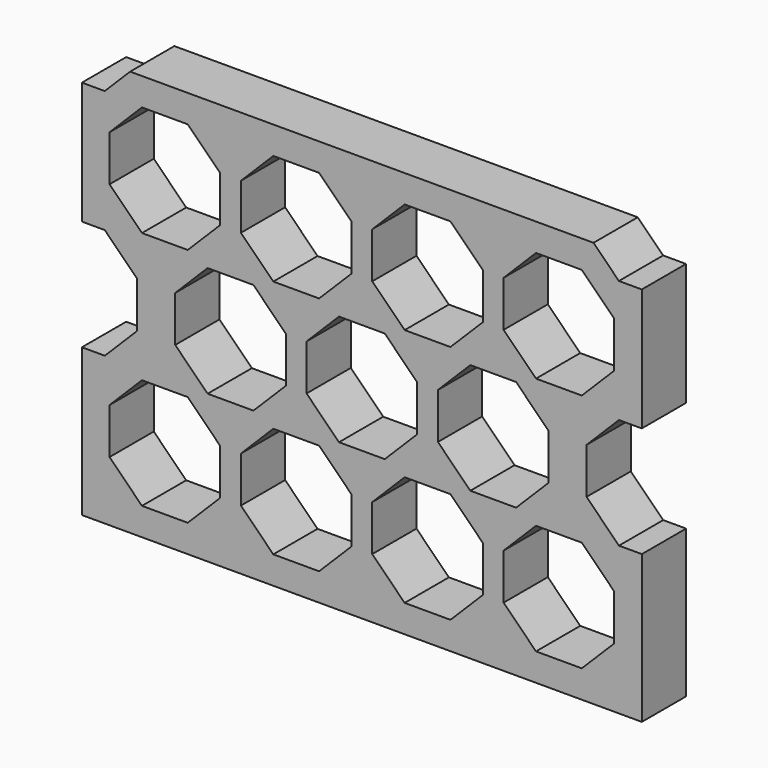
from build123d import *

# Parameters (mm, degrees)
F1_DEPTH = 2


with BuildPart() as f1:
    # F0 (on Front) → F1 (new body)
    with BuildSketch(Plane.XZ):
        Polygon((5.419874, 11.329587), (-11.338243, 11.329587), (-12.255757, 10.412073), (-13.082057, 10.412073), (-13.082057, 5.987073), (-12.25363, 5.987073), (-11.082057, 4.8155), (-11.082057, 3.158646), (-12.25363, 1.987073), (-13.082057, 1.987073), (-13.082057, -3.355442), (7.167943, -3.355442), (7.167943, 1.987073), (6.339516, 1.987073), (5.167943, 3.158646), (5.167943, 4.8155), (6.339516, 5.987073), (7.165815, 5.987073), (7.165815, 10.412073), (6.337388, 10.412073), align=None)
        Polygon((-12.082057, -1.183869), (-12.082057, 0.472986), (-10.910484, 1.644558), (-9.25363, 1.644558), (-8.082057, 0.472986), (-8.082057, -1.183869), (-9.25363, -2.355442), (-10.910484, -2.355442), align=None, mode=Mode.SUBTRACT)
        Polygon((-4.50363, 1.644558), (-3.332057, 0.472986), (-3.332057, -1.183869), (-4.50363, -2.355442), (-6.160484, -2.355442), (-7.332057, -1.183869), (-7.332057, 0.472986), (-6.160484, 1.644558), align=None, mode=Mode.SUBTRACT)
        Polygon((-8.082057, 9.158014), (-8.082057, 7.50116), (-9.25363, 6.329587), (-10.910484, 6.329587), (-12.082057, 7.50116), (-12.082057, 9.158014), (-10.910484, 10.329587), (-9.25363, 10.329587), align=None, mode=Mode.SUBTRACT)
        Polygon((-9.707057, 3.158646), (-9.707057, 4.8155), (-8.535484, 5.987073), (-6.87863, 5.987073), (-5.707057, 4.8155), (-5.707057, 3.158646), (-6.87863, 1.987073), (-8.535484, 1.987073), align=None, mode=Mode.SUBTRACT)
        Polygon((-7.332057, 9.158014), (-6.160484, 10.329587), (-4.50363, 10.329587), (-3.332057, 9.158014), (-3.332057, 7.50116), (-4.50363, 6.329587), (-6.160484, 6.329587), (-7.332057, 7.50116), align=None, mode=Mode.SUBTRACT)
        Polygon((0.24637, 1.644558), (1.417943, 0.472986), (1.417943, -1.183869), (0.24637, -2.355442), (-1.410484, -2.355442), (-2.582057, -1.183869), (-2.582057, 0.472986), (-1.410484, 1.644558), align=None, mode=Mode.SUBTRACT)
        Polygon((4.99637, 1.644558), (6.167943, 0.472986), (6.167943, -1.183869), (4.99637, -2.355442), (3.339516, -2.355442), (2.167943, -1.183869), (2.167943, 0.472986), (3.339516, 1.644558), align=None, mode=Mode.SUBTRACT)
        Polygon((-3.785484, 5.987073), (-2.12863, 5.987073), (-0.957057, 4.8155), (-0.957057, 3.158646), (-2.12863, 1.987073), (-3.785484, 1.987073), (-4.957057, 3.158646), (-4.957057, 4.8155), align=None, mode=Mode.SUBTRACT)
        Polygon((0.964516, 5.987073), (2.62137, 5.987073), (3.792943, 4.8155), (3.792943, 3.158646), (2.62137, 1.987073), (0.964516, 1.987073), (-0.207057, 3.158646), (-0.207057, 4.8155), align=None, mode=Mode.SUBTRACT)
        Polygon((-2.582057, 9.158014), (-1.410484, 10.329587), (0.24637, 10.329587), (1.417943, 9.158014), (1.417943, 7.50116), (0.24637, 6.329587), (-1.410484, 6.329587), (-2.582057, 7.50116), align=None, mode=Mode.SUBTRACT)
        Polygon((2.167943, 9.158014), (3.339516, 10.329587), (4.99637, 10.329587), (6.167943, 9.158014), (6.167943, 7.50116), (4.99637, 6.329587), (3.339516, 6.329587), (2.167943, 7.50116), align=None, mode=Mode.SUBTRACT)
    extrude(amount=F1_DEPTH)


solid = f1.part
